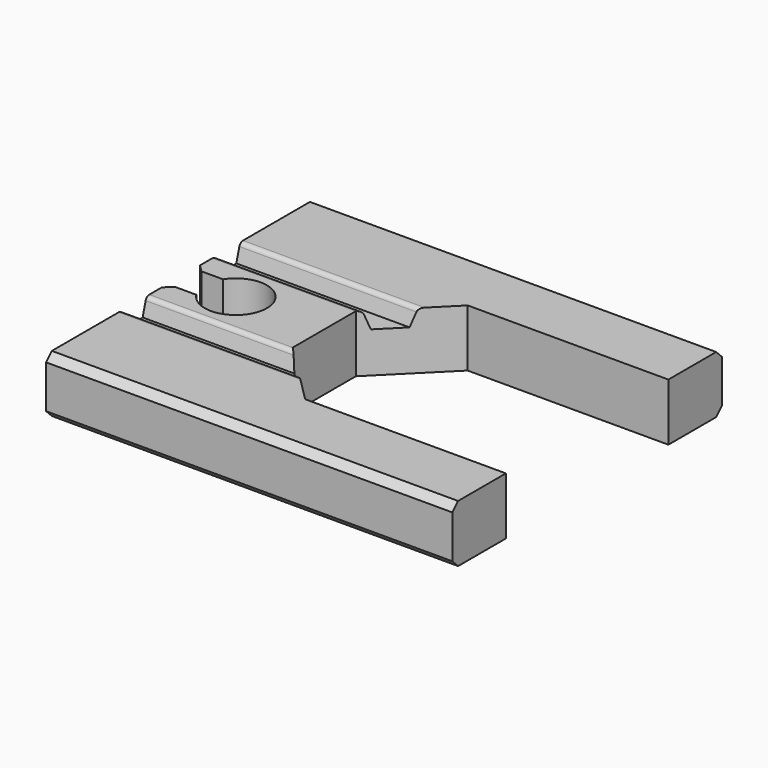
from build123d import *

# Parameters (mm, degrees)
F1_DEPTH = 12
F2_W     = 8
F2_H     = 7
F3_DEPTH = 12
F4_R     = 6.5
F5_DEPTH = 12
F6_SIZE  = 1.5
F8_DEPTH = 40
F9_R     = 1


with BuildPart() as f1:
    # F0 (on Top) → F1 (new body)
    with BuildSketch(Plane.XY):
        Polygon((85, 35.25), (0, 35.25), (0, -35.25), (85, -35.25), (85, -21.25), (43, -21.25), (30, -8.25), (30, 8.25), (43, 21.25), (85, 21.25), align=None)
    extrude(amount=F1_DEPTH)

    # F2 (on Top) → F3 (cut)
    with BuildSketch(Plane.XY):
        with Locations((4, 0)):
            Rectangle(F2_W, F2_H)
    extrude(amount=F3_DEPTH, mode=Mode.SUBTRACT)

    # F4 (on Top) → F5 (cut)
    with BuildSketch(Plane.XY):
        with Locations((11.5, 0)):
            Circle(F4_R)
    extrude(amount=F5_DEPTH, mode=Mode.SUBTRACT)

    # F6
    f6_edges = [f1.edges().sort_by_distance(p)[0] for p in [
        (42.5, -35.25, 12),
        (42.5, 35.25, 12),
        (42.5, -35.25, 0),
        (42.5, 35.25, 0),
        (0, 3.5, 6),
        (0, -3.5, 6),
    ]]
    chamfer(f6_edges, length=F6_SIZE)

    # F7 (on Right) → F8 (cut)
    with BuildSketch(Plane.YZ):
        Polygon((-10, 8.5), (-9, 12), (-15.5, 12), (-14.5, 8.5), align=None)
        Polygon((14.5, 8.5), (15.5, 12), (9, 12), (10, 8.5), align=None)
    extrude(amount=F8_DEPTH, mode=Mode.SUBTRACT)

    # F9
    f9_edges = [f1.edges().sort_by_distance(p)[0] for p in [
        (18.625, 15.5, 12),
        (18.625, -15.5, 12),
        (15.375, -9, 12),
        (15.375, 9, 12),
    ]]
    fillet(f9_edges, radius=F9_R)


solid = f1.part
